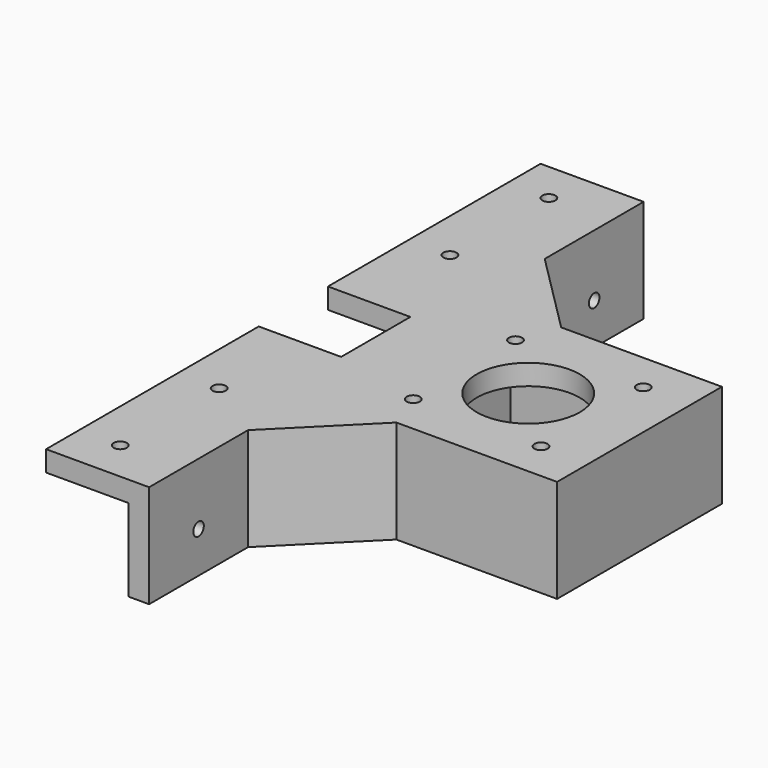
from build123d import *

# Parameters (mm, degrees)
F0_W      = 150
F0_H      = 25
F1_DEPTH  = 5
F2_W      = 50
F2_H      = 25
F3_DEPTH  = 59
F4_W      = 43
F4_H      = 43
F5_DEPTH  = 20
F7_D      = 3.2
F7_DEPTH  = 8
F7_TIP    = 0.9613769904
F6_R      = 12.5
F8_DEPTH  = 5.001
F10_D     = 3.2
F10_DEPTH = 8
F10_TIP   = 0.9613769904
F11_SIZE  = 20
F12_W     = 150
F12_H     = 5
F13_DEPTH = 20
F14_W     = 21
F14_H     = 5
F15_DEPTH = 20
F17_D     = 3.2
F17_DEPTH = 8
F17_TIP   = 0.9613769904


with BuildPart() as f1:
    # F0 (on Right) → F1 (new body)
    with BuildSketch(Plane.YZ):
        with Locations((75, 12.5)):
            Rectangle(F0_W, F0_H)
    extrude(amount=F1_DEPTH)

    # F2 (on face) → F3 (join)
    with BuildSketch(Plane.YZ.offset(5)):
        with Locations((75, 12.5)):
            Rectangle(F2_W, F2_H)
    extrude(amount=F3_DEPTH)

    # F4 (on face) → F5 (cut)
    with BuildSketch(Plane(origin=(0, 0, 0), x_dir=(1, 0, 0), z_dir=(0, 0, -1))):
        with Locations((37, -75)):
            Rectangle(F4_W, F4_H)
    extrude(amount=-F5_DEPTH, mode=Mode.SUBTRACT)

    # F7
    with Locations(Plane(origin=(0, 0, 20), x_dir=(1, 0, 0), z_dir=(0, 0, -1))):
        with Locations((21.5, -59.5), (52.5, -59.5), (52.5, -90.5), (21.5, -90.5)):
            Hole(F7_D / 2, depth=F7_DEPTH)
            with Locations((0, 0, -(F7_DEPTH + F7_TIP / 2))):  # 118° drill point
                Cone(0, F7_D / 2, F7_TIP, mode=Mode.SUBTRACT)

    # F6 (on face) → F8 (cut, through all)
    with BuildSketch(Plane(origin=(0, 0, 20), x_dir=(1, 0, 0), z_dir=(0, 0, -1))):
        with Locations((37, -75)):
            Circle(F6_R)
    extrude(amount=-F8_DEPTH, mode=Mode.SUBTRACT)

    # F10
    with Locations(Plane.YZ.offset(5)):
        with Locations((15, 10), (135, 10)):
            Hole(F10_D / 2, depth=F10_DEPTH)
            with Locations((0, 0, -(F10_DEPTH + F10_TIP / 2))):  # 118° drill point
                Cone(0, F10_D / 2, F10_TIP, mode=Mode.SUBTRACT)

    # F11
    f11_edges = [f1.edges().sort_by_distance(p)[0] for p in [
        (5, 50, 12.5),
        (5, 100, 12.5),
    ]]
    chamfer(f11_edges, length=F11_SIZE)

    # F12 (on face) → F13 (join)
    with BuildSketch(Plane(origin=(0, 0, 0), x_dir=(0, -1, 0), z_dir=(-1, 0, 0))):
        with Locations((-75, 22.5)):
            Rectangle(F12_W, F12_H)
    extrude(amount=F13_DEPTH)

    # F14 (on face) → F15 (cut, through all)
    with BuildSketch(Plane(origin=(-20, 0, 0), x_dir=(0, -1, 0), z_dir=(-1, 0, 0))):
        with Locations((-75, 22.5)):
            Rectangle(F14_W, F14_H)
    extrude(amount=-F15_DEPTH, mode=Mode.SUBTRACT)

    # F17
    with Locations(Plane.XY.offset(25)):
        with Locations((-10, 10), (-10, 40), (-10, 110), (-10, 140)):
            Hole(F17_D / 2, depth=F17_DEPTH)
            with Locations((0, 0, -(F17_DEPTH + F17_TIP / 2))):  # 118° drill point
                Cone(0, F17_D / 2, F17_TIP, mode=Mode.SUBTRACT)


solid = f1.part
